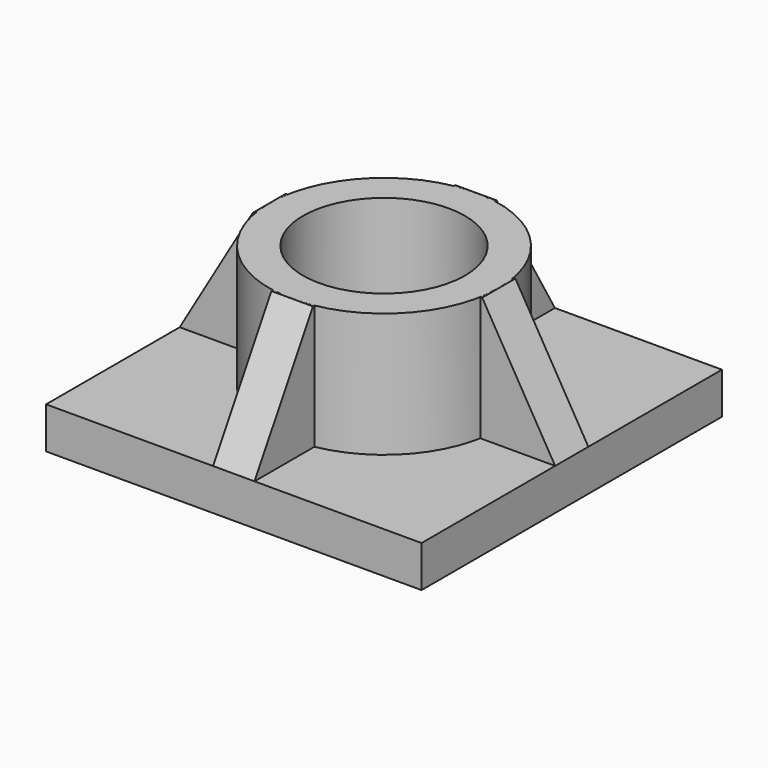
from build123d import *

# Parameters (mm, degrees)
F0_W     = 90.5615985394
F0_H     = 90.5615985394
F0_R     = 27.6869660207
F0_R_2   = 19.5322584236
F1_DEPTH = 10
F2_R     = 27.6869660207
F2_R_2   = 19.5322584236
F3_DEPTH = 30
F4_W     = 4.1726225951
F4_H     = 30
F5_DEPTH = 5
F7_COUNT = 4


with BuildPart() as f1:
    # F0 (on Top) → F1 (new body)
    with BuildSketch(Plane.XY):
        Rectangle(F0_W, F0_H)
        Circle(F0_R, mode=Mode.SUBTRACT)
        Circle(F0_R)
        Circle(F0_R_2, mode=Mode.SUBTRACT)
        Circle(F0_R_2)
    extrude(amount=F1_DEPTH)


with BuildPart() as f3:
    # F2 (on face) → F3 (new body)
    with BuildSketch(Plane.XY.offset(10)):
        Circle(F2_R)
        Circle(F2_R_2, mode=Mode.SUBTRACT)
    extrude(amount=F3_DEPTH)


with BuildPart() as f5:
    # F4 (on Front) → F5 (new body, symmetric)
    with BuildSketch(Plane.XZ):
        with Locations((-25.6006547232, 25)):
            Rectangle(F4_W, F4_H)
        Polygon((-27.6869660207, 10), (-27.6869660207, 40), (-45.2807992697, 10), align=None)
    extrude(amount=F5_DEPTH, both=True)

    # F6: cut F3
    add(f3.part, mode=Mode.SUBTRACT)


with BuildPart() as f7_1:
    # F7: instance of F5
    add(f5.part.rotate(Axis((0, 0, 27.9866810888), (0, 0, 1)), 1 * 360 / F7_COUNT))


with BuildPart() as f7_2:
    # F7: instance of F5
    add(f5.part.rotate(Axis((0, 0, 27.9866810888), (0, 0, 1)), 2 * 360 / F7_COUNT))


with BuildPart() as f7_3:
    # F7: instance of F5
    add(f5.part.rotate(Axis((0, 0, 27.9866810888), (0, 0, 1)), 3 * 360 / F7_COUNT))


solid = Compound([f1.part, f3.part, f5.part, f7_1.part, f7_2.part, f7_3.part])
